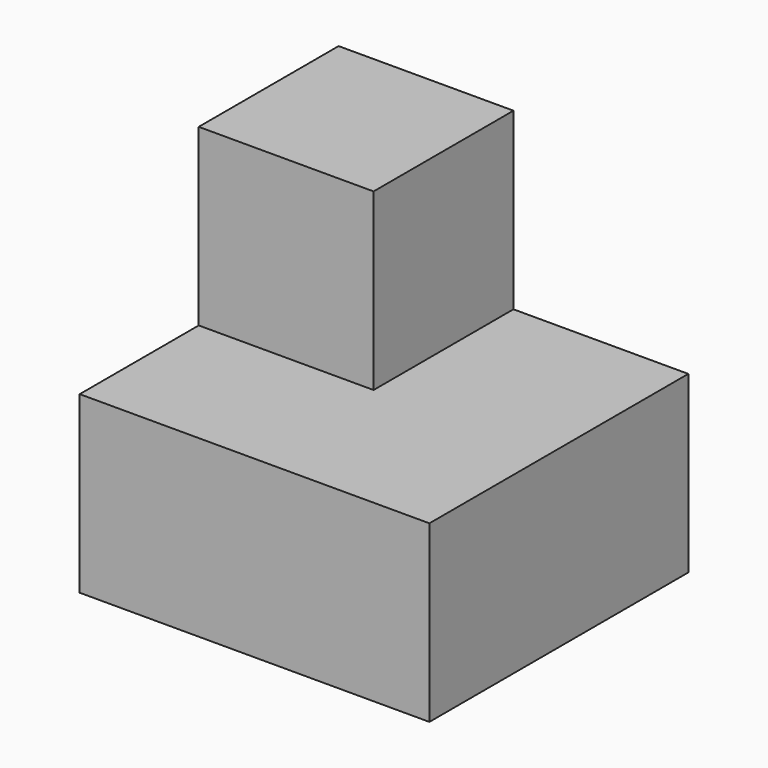
from build123d import *

# Parameters (mm, degrees)
F0_W     = 101.6
F0_H     = 94.024562
F1_DEPTH = 50.8
F2_W     = 50.8
F2_H     = 50.8
F3_DEPTH = 50.8


with BuildPart() as f1:
    # F0 (on Top) → F1 (new body)
    with BuildSketch(Plane.XY):
        Rectangle(F0_W, F0_H)
    extrude(amount=F1_DEPTH)

    # F2 (on face) → F3 (join)
    with BuildSketch(Plane(origin=(0, 47.012281, 0), x_dir=(-1, 0, 0), z_dir=(0, 1, 0))):
        with Locations((25.4, 76.2)):
            Rectangle(F2_W, F2_H)
    extrude(amount=-F3_DEPTH)


solid = f1.part
